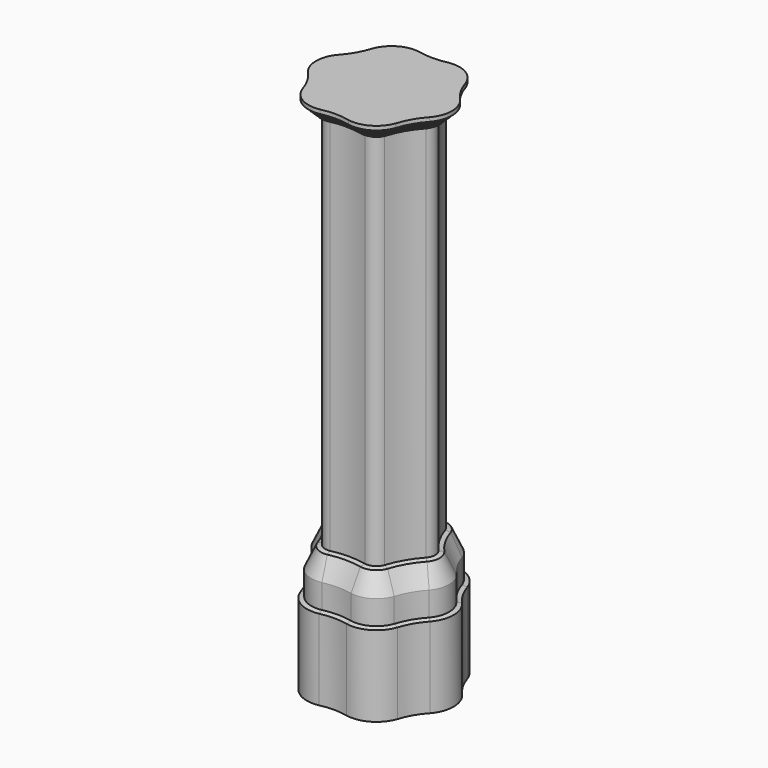
from build123d import *

# Parameters (mm, degrees)
F1_DEPTH  = 468
F2_DEPTH  = 3
F2_TAPER  = -60
F3_DEPTH  = 2
F4_DEPTH  = 3
F4_TAPER  = -60
F5_DEPTH  = 2
F6_DEPTH  = 3
F6_TAPER  = -60
F7_DEPTH  = 2
F8_DEPTH  = 3
F8_TAPER  = -60
F9_DEPTH  = 5
F10_DEPTH = 1.5
F10_TAPER = -75
F11_DEPTH = 25
F11_TAPER = -25
F12_DEPTH = 30
F13_DEPTH = 1.5
F13_TAPER = -75
F14_DEPTH = 100


with BuildPart() as f1:
    # F0 (on Top) → F1 (new body)
    with BuildSketch(Plane.XY):
        with BuildLine():
            ThreePointArc((-21.5762221465, -56.6521547506), (0, -54.2967482409), (21.5762221465, -56.6521547506))
            ThreePointArc((21.5762221465, -56.6521547506), (31.6792822821, -54.8701264598), (38.2740941199, -47.0116338719))
            ThreePointArc((38.2740941199, -47.0116338719), (47.0223633195, -27.1483741204), (59.8503162664, -9.6405208787))
            ThreePointArc((59.8503162664, -9.6405208787), (63.3585645641, 0), (59.8503162664, 9.6405208787))
            ThreePointArc((59.8503162664, 9.6405208787), (47.0223633195, 27.1483741204), (38.2740941199, 47.0116338719))
            ThreePointArc((38.2740941199, 47.0116338719), (31.6792822821, 54.8701264598), (21.5762221465, 56.6521547506))
            ThreePointArc((21.5762221465, 56.6521547506), (0, 54.2967482409), (-21.5762221465, 56.6521547506))
            ThreePointArc((-21.5762221465, 56.6521547506), (-31.6792822821, 54.8701264598), (-38.2740941199, 47.0116338719))
            ThreePointArc((-38.2740941199, 47.0116338719), (-47.0223633195, 27.1483741204), (-59.8503162664, 9.6405208787))
            ThreePointArc((-59.8503162664, 9.6405208787), (-63.3585645641, 0), (-59.8503162664, -9.6405208787))
            ThreePointArc((-59.8503162664, -9.6405208787), (-47.0223633195, -27.1483741204), (-38.2740941199, -47.0116338719))
            ThreePointArc((-38.2740941199, -47.0116338719), (-31.6792822821, -54.8701264598), (-21.5762221465, -56.6521547506))
        make_face()
    extrude(amount=F1_DEPTH)

    # F1_face (on face) → F2 (join)
    with BuildSketch(Plane.XY.offset(468)):
        with BuildLine():
            ThreePointArc((21.5762221465, 56.6521547506), (0, 54.2967482409), (-21.5762221465, 56.6521547506))
            ThreePointArc((-21.5762221465, 56.6521547506), (-31.6792822821, 54.8701264598), (-38.2740941199, 47.0116338719))
            ThreePointArc((-38.2740941199, 47.0116338719), (-47.0223633195, 27.1483741204), (-59.8503162664, 9.6405208787))
            ThreePointArc((-59.8503162664, 9.6405208787), (-63.3585645641, 0), (-59.8503162664, -9.6405208787))
            ThreePointArc((-59.8503162664, -9.6405208787), (-47.0223633195, -27.1483741204), (-38.2740941199, -47.0116338719))
            ThreePointArc((-38.2740941199, -47.0116338719), (-31.6792822821, -54.8701264598), (-21.5762221465, -56.6521547506))
            ThreePointArc((-21.5762221465, -56.6521547506), (0, -54.2967482409), (21.5762221465, -56.6521547506))
            ThreePointArc((21.5762221465, -56.6521547506), (31.6792822821, -54.8701264598), (38.2740941199, -47.0116338719))
            ThreePointArc((38.2740941199, -47.0116338719), (47.0223633195, -27.1483741204), (59.8503162664, -9.6405208787))
            ThreePointArc((59.8503162664, -9.6405208787), (63.3585645641, 0), (59.8503162664, 9.6405208787))
            ThreePointArc((59.8503162664, 9.6405208787), (47.0223633195, 27.1483741204), (38.2740941199, 47.0116338719))
            ThreePointArc((38.2740941199, 47.0116338719), (31.6792822821, 54.8701264598), (21.5762221465, 56.6521547506))
        make_face()
    extrude(amount=F2_DEPTH, taper=F2_TAPER)

    # F3 (add): a face of the model
    f3_faces = [f1.faces().sort_by_distance(p)[0] for p in [
        (0, 0, 471),
    ]]
    extrude(f3_faces, amount=F3_DEPTH)

    # F3_face (on face) → F4 (join)
    with BuildSketch(Plane.XY.offset(473)):
        with BuildLine():
            ThreePointArc((20.5547533439, -61.7479955187), (34.2773584934, -59.3701264598), (43.19795608, -48.6749363237))
            ThreePointArc((43.19795608, -48.6749363237), (51.5223633195, -29.7464503318), (63.7527094239, -13.073059195))
            ThreePointArc((63.7527094239, -13.073059195), (68.5547169868, 0), (63.7527094239, 13.073059195))
            ThreePointArc((63.7527094239, 13.073059195), (51.5223633195, 29.7464503318), (43.19795608, 48.6749363237))
            ThreePointArc((43.19795608, 48.6749363237), (34.2773584934, 59.3701264598), (20.5547533439, 61.7479955187))
            ThreePointArc((20.5547533439, 61.7479955187), (0, 59.4929006636), (-20.5547533439, 61.7479955187))
            ThreePointArc((-20.5547533439, 61.7479955187), (-34.2773584934, 59.3701264598), (-43.19795608, 48.6749363237))
            ThreePointArc((-43.19795608, 48.6749363237), (-51.5223633195, 29.7464503318), (-63.7527094239, 13.073059195))
            ThreePointArc((-63.7527094239, 13.073059195), (-68.5547169868, 0), (-63.7527094239, -13.073059195))
            ThreePointArc((-63.7527094239, -13.073059195), (-51.5223633195, -29.7464503318), (-43.19795608, -48.6749363237))
            ThreePointArc((-43.19795608, -48.6749363237), (-34.2773584934, -59.3701264598), (-20.5547533439, -61.7479955187))
            ThreePointArc((-20.5547533439, -61.7479955187), (0, -59.4929006636), (20.5547533439, -61.7479955187))
        make_face()
    extrude(amount=F4_DEPTH, taper=F4_TAPER)

    # F5 (add): a face of the model
    f5_faces = [f1.faces().sort_by_distance(p)[0] for p in [
        (0, 0, 476),
    ]]
    extrude(f5_faces, amount=F5_DEPTH)

    # F5_face (on face) → F6 (join)
    with BuildSketch(Plane.XY.offset(478)):
        with BuildLine():
            ThreePointArc((-48.1266384229, 50.323280162), (-56.0223633195, 32.3445265432), (-67.6445582335, 16.517251392))
            ThreePointArc((-67.6445582335, 16.517251392), (-73.7508694095, 0), (-67.6445582335, -16.517251392))
            ThreePointArc((-67.6445582335, -16.517251392), (-56.0223633195, -32.3445265431), (-48.1266384229, -50.323280162))
            ThreePointArc((-48.1266384229, -50.323280162), (-36.8754347048, -63.8701264598), (-19.5179198106, -66.840531554))
            ThreePointArc((-19.5179198106, -66.840531554), (0, -64.6890530863), (19.5179198106, -66.840531554))
            ThreePointArc((19.5179198106, -66.840531554), (36.8754347048, -63.8701264598), (48.1266384229, -50.323280162))
            ThreePointArc((48.1266384229, -50.323280162), (56.0223633195, -32.3445265431), (67.6445582335, -16.517251392))
            ThreePointArc((67.6445582335, -16.517251392), (73.7508694095, 0), (67.6445582335, 16.517251392))
            ThreePointArc((67.6445582335, 16.517251392), (56.0223633195, 32.3445265432), (48.1266384229, 50.323280162))
            ThreePointArc((48.1266384229, 50.323280162), (36.8754347048, 63.8701264598), (19.5179198106, 66.840531554))
            ThreePointArc((19.5179198106, 66.840531554), (0, 64.6890530863), (-19.5179198106, 66.840531554))
            ThreePointArc((-19.5179198106, 66.840531554), (-36.8754347048, 63.8701264598), (-48.1266384229, 50.323280162))
        make_face()
    extrude(amount=F6_DEPTH, taper=F6_TAPER)

    # F7 (add): a face of the model
    f7_faces = [f1.faces().sort_by_distance(p)[0] for p in [
        (0, 0, 481),
    ]]
    extrude(f7_faces, amount=F7_DEPTH)

    # F7_face (on face) → F8 (join)
    with BuildSketch(Plane.XY.offset(483)):
        with BuildLine():
            ThreePointArc((-18.4693089001, 71.9305344446), (-39.4735109161, 68.3701264598), (-53.0590156868, 51.9601579202))
            ThreePointArc((-53.0590156868, 51.9601579202), (-60.5223633195, 34.9426027545), (-71.5283245869, 19.9703765245))
            ThreePointArc((-71.5283245869, 19.9703765245), (-78.9470218322, 0), (-71.5283245869, -19.9703765245))
            ThreePointArc((-71.5283245869, -19.9703765245), (-60.5223633195, -34.9426027545), (-53.0590156868, -51.9601579202))
            ThreePointArc((-53.0590156868, -51.9601579202), (-39.4735109161, -68.3701264598), (-18.4693089001, -71.9305344446))
            ThreePointArc((-18.4693089001, -71.9305344446), (0, -69.885205509), (18.4693089001, -71.9305344446))
            ThreePointArc((18.4693089001, -71.9305344446), (39.4735109161, -68.3701264598), (53.0590156868, -51.9601579202))
            ThreePointArc((53.0590156868, -51.9601579202), (60.5223633195, -34.9426027545), (71.5283245869, -19.9703765245))
            ThreePointArc((71.5283245869, -19.9703765245), (78.9470218322, 0), (71.5283245869, 19.9703765245))
            ThreePointArc((71.5283245869, 19.9703765245), (60.5223633195, 34.9426027545), (53.0590156868, 51.9601579202))
            ThreePointArc((53.0590156868, 51.9601579202), (39.4735109161, 68.3701264598), (18.4693089001, 71.9305344446))
            ThreePointArc((18.4693089001, 71.9305344446), (0, 69.885205509), (-18.4693089001, 71.9305344446))
        make_face()
    extrude(amount=F8_DEPTH, taper=F8_TAPER)

    # F9 (add): a face of the model
    f9_faces = [f1.faces().sort_by_distance(p)[0] for p in [
        (0, 0, 486),
    ]]
    extrude(f9_faces, amount=F9_DEPTH)


with BuildPart() as f10:
    # F1_face1 (on face) → F10 (new body)
    with BuildSketch(Plane(origin=(0, 0, 0), x_dir=(1, 0, 0), z_dir=(0, 0, -1))):
        with BuildLine():
            ThreePointArc((-21.5762221465, -56.6521547506), (0, -54.2967482409), (21.5762221465, -56.6521547506))
            ThreePointArc((21.5762221465, -56.6521547506), (31.6792822821, -54.8701264598), (38.2740941199, -47.0116338719))
            ThreePointArc((38.2740941199, -47.0116338719), (47.0223633195, -27.1483741204), (59.8503162664, -9.6405208787))
            ThreePointArc((59.8503162664, -9.6405208787), (63.3585645641, 0), (59.8503162664, 9.6405208787))
            ThreePointArc((59.8503162664, 9.6405208787), (47.0223633195, 27.1483741204), (38.2740941199, 47.0116338719))
            ThreePointArc((38.2740941199, 47.0116338719), (31.6792822821, 54.8701264598), (21.5762221465, 56.6521547506))
            ThreePointArc((21.5762221465, 56.6521547506), (0, 54.2967482409), (-21.5762221465, 56.6521547506))
            ThreePointArc((-21.5762221465, 56.6521547506), (-31.6792822821, 54.8701264598), (-38.2740941199, 47.0116338719))
            ThreePointArc((-38.2740941199, 47.0116338719), (-47.0223633195, 27.1483741204), (-59.8503162664, 9.6405208787))
            ThreePointArc((-59.8503162664, 9.6405208787), (-63.3585645641, 0), (-59.8503162664, -9.6405208787))
            ThreePointArc((-59.8503162664, -9.6405208787), (-47.0223633195, -27.1483741204), (-38.2740941199, -47.0116338719))
            ThreePointArc((-38.2740941199, -47.0116338719), (-31.6792822821, -54.8701264598), (-21.5762221465, -56.6521547506))
        make_face()
    extrude(amount=F10_DEPTH, taper=F10_TAPER)

    # F10_face (on face) → F11 (join)
    with BuildSketch(Plane(origin=(0, 0, -1.5), x_dir=(1, 0, 0), z_dir=(0, 0, -1))):
        with BuildLine():
            ThreePointArc((20.4750424394, 62.1420096101), (0, 59.8948244522), (-20.4750424394, 62.1420096101))
            ThreePointArc((-20.4750424394, 62.1420096101), (-34.4783203877, 59.7182026712), (-43.5790377449, 48.8029117012))
            ThreePointArc((-43.5790377449, 48.8029117012), (-51.8704395308, 29.9474122261), (-64.0540801843, 13.339097909))
            ThreePointArc((-64.0540801843, 13.339097909), (-68.9566407755, 0), (-64.0540801843, -13.339097909))
            ThreePointArc((-64.0540801843, -13.339097909), (-51.8704395308, -29.9474122261), (-43.5790377449, -48.8029117012))
            ThreePointArc((-43.5790377449, -48.8029117012), (-34.4783203877, -59.7182026712), (-20.4750424394, -62.1420096101))
            ThreePointArc((-20.4750424394, -62.1420096101), (0, -59.8948244522), (20.4750424394, -62.1420096101))
            ThreePointArc((20.4750424394, -62.1420096101), (34.4783203877, -59.7182026712), (43.5790377449, -48.8029117012))
            ThreePointArc((43.5790377449, -48.8029117012), (51.8704395308, -29.9474122261), (64.0540801843, -13.339097909))
            ThreePointArc((64.0540801843, -13.339097909), (68.9566407755, 0), (64.0540801843, 13.339097909))
            ThreePointArc((64.0540801843, 13.339097909), (51.8704395308, 29.9474122261), (43.5790377449, 48.8029117012))
            ThreePointArc((43.5790377449, 48.8029117012), (34.4783203877, 59.7182026712), (20.4750424394, 62.1420096101))
        make_face()
    extrude(amount=F11_DEPTH, taper=F11_TAPER)

    # F12 (add): a face of the model
    f12_faces = [f10.faces().sort_by_distance(p)[0] for p in [
        (0, 0, -26.5),
    ]]
    extrude(f12_faces, amount=F12_DEPTH)

    # F12_face (on face) → F13 (join)
    with BuildSketch(Plane(origin=(0, 0, -56.5), x_dir=(1, 0, 0), z_dir=(0, 0, -1))):
        with BuildLine():
            ThreePointArc((54.6423559767, 52.4833150259), (40.3071661147, 69.8140596197), (18.1307060989, 73.5633259114))
            ThreePointArc((18.1307060989, 73.5633259114), (0, 71.5525159061), (-18.1307060989, 73.5633259114))
            ThreePointArc((-18.1307060989, 73.5633259114), (-40.3071661147, 69.8140596197), (-54.6423559767, 52.4833150259))
            ThreePointArc((-54.6423559767, 52.4833150259), (-61.9662964794, 35.7762579531), (-72.7730620756, 21.0800108855))
            ThreePointArc((-72.7730620756, 21.0800108855), (-80.6143322293, 0), (-72.7730620756, -21.0800108855))
            ThreePointArc((-72.7730620756, -21.0800108855), (-61.9662964794, -35.7762579531), (-54.6423559767, -52.4833150259))
            ThreePointArc((-54.6423559767, -52.4833150259), (-40.3071661147, -69.8140596197), (-18.1307060989, -73.5633259114))
            ThreePointArc((-18.1307060989, -73.5633259114), (0, -71.5525159061), (18.1307060989, -73.5633259114))
            ThreePointArc((18.1307060989, -73.5633259114), (40.3071661147, -69.8140596197), (54.6423559767, -52.4833150259))
            ThreePointArc((54.6423559767, -52.4833150259), (61.9662964794, -35.7762579531), (72.7730620756, -21.0800108855))
            ThreePointArc((72.7730620756, -21.0800108855), (80.6143322293, 0), (72.7730620756, 21.0800108855))
            ThreePointArc((72.7730620756, 21.0800108855), (61.9662964794, 35.7762579531), (54.6423559767, 52.4833150259))
        make_face()
    extrude(amount=F13_DEPTH, taper=F13_TAPER)

    # F14 (add): a face of the model
    f14_faces = [f10.faces().sort_by_distance(p)[0] for p in [
        (0, 0, -58),
    ]]
    extrude(f14_faces, amount=F14_DEPTH)


solid = Compound([f1.part, f10.part])
